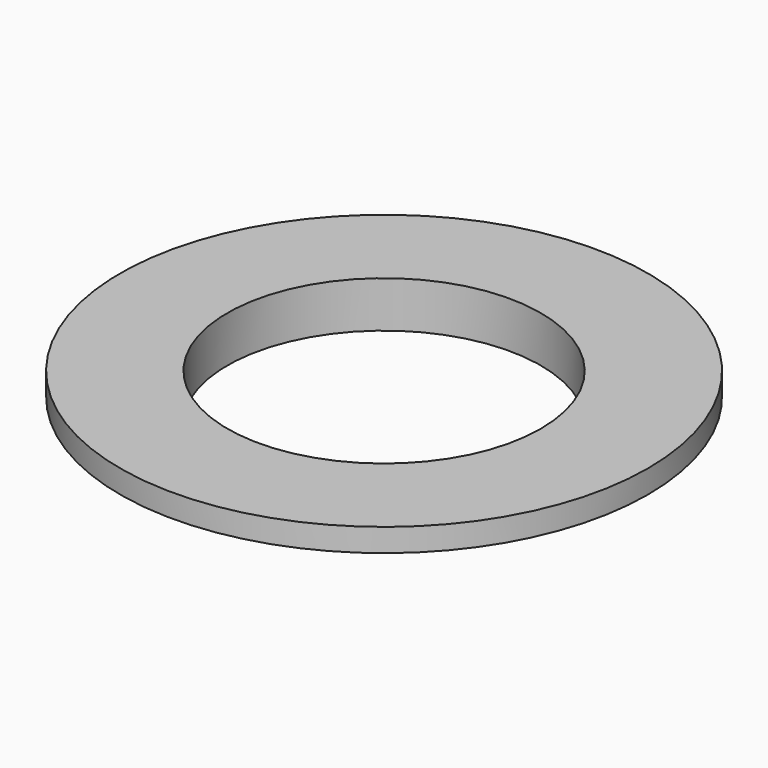
from build123d import *

# Parameters (mm, degrees)
CYLINDER_R        = 4.75
CYLINDER_DEPTH    = 10
CYLINDER001_R     = 6.25
CYLINDER001_DEPTH = 0.7
CYLINDER002_R     = 8
CYLINDER002_DEPTH = 0.7


with BuildPart() as cylinder:
    # Cylinder → Cylinder (new body)
    with BuildSketch(Plane.XY.offset(-4)):
        Circle(CYLINDER_R)
    extrude(amount=CYLINDER_DEPTH)


with BuildPart() as cylinder001:
    # Cylinder001 → Cylinder001 (new body)
    with BuildSketch(Plane.XY):
        Circle(CYLINDER001_R)
    extrude(amount=CYLINDER001_DEPTH)


with BuildPart() as washer:
    # Cylinder002 → Cylinder002 (new body)
    with BuildSketch(Plane.XY.offset(0.7)):
        Circle(CYLINDER002_R)
    extrude(amount=CYLINDER002_DEPTH)

    # Fusion: union Cylinder001
    add(cylinder001.part)

    # Cut: cut Cylinder
    add(cylinder.part, mode=Mode.SUBTRACT)


solid = washer.part
